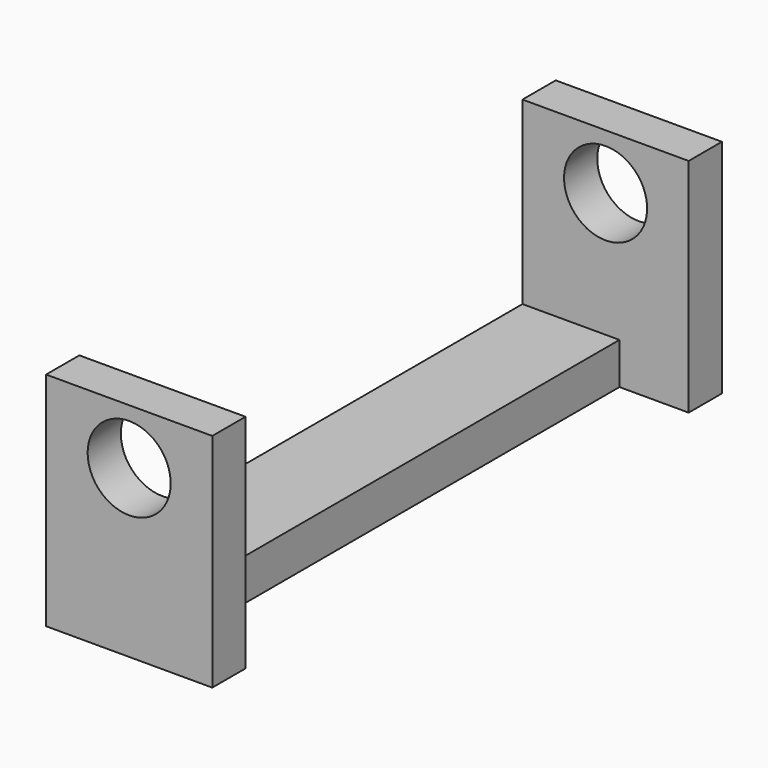
from build123d import *

# Parameters (mm, degrees)
F0_W     = 3
F0_H     = 40
F1_DEPTH = 16
F3_D     = 6
F4_W     = 40
F4_H     = 3
F5_DEPTH = 4
F7_DEPTH = 25


with BuildPart() as f1:
    # F0 (on Top) → F1 (new body)
    with BuildSketch(Plane.XY):
        Polygon((-1.5, 23), (-1.5, 20), (1.5, 20), (10.5, 20), (10.5, 23), align=None)
        Rectangle(F0_W, F0_H)
        Polygon((1.5, -20), (-1.5, -20), (-1.5, -23), (10.5, -23), (10.5, -20), align=None)
    extrude(amount=F1_DEPTH)

    # F3 (through all)
    with Locations(Plane.XZ.offset(23)):
        with Locations((4.5, 12)):
            Hole(F3_D / 2)

    # F4 (on face) → F5 (join)
    with BuildSketch(Plane.YZ.offset(1.5)):
        with Locations((0, 1.5)):
            Rectangle(F4_W, F4_H)
    extrude(amount=F5_DEPTH)

    # F6 (on face) → F7 (cut)
    with BuildSketch(Plane.YZ.offset(1.5)):
        Polygon((20, 16), (-20, 16), (-20, 12), (-20, 3), (20, 3), (20, 12), align=None)
    extrude(amount=-F7_DEPTH, mode=Mode.SUBTRACT)


solid = f1.part
